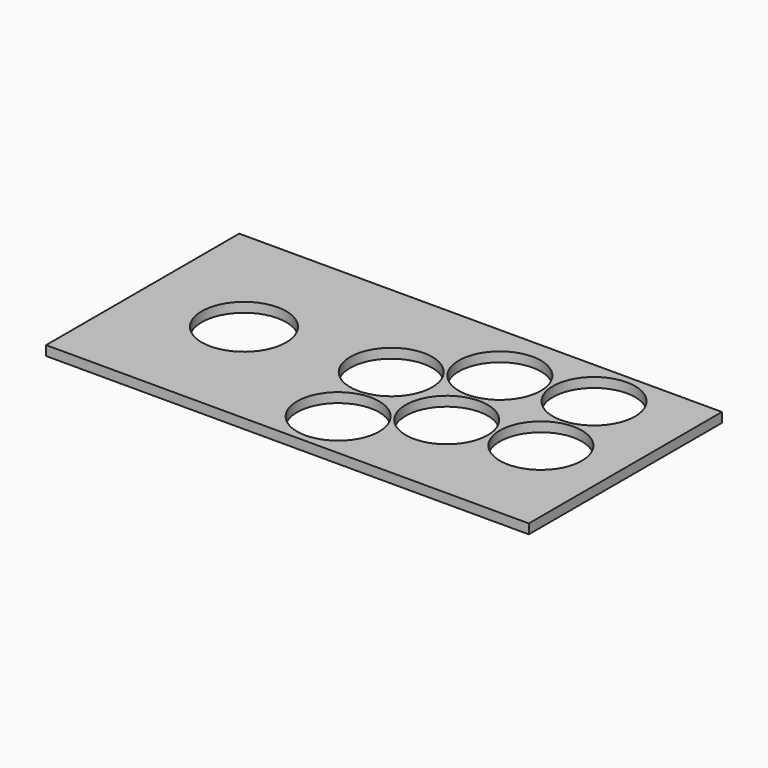
from build123d import *

# Parameters (mm, degrees)
F0_W     = 200
F0_H     = 100
F2_DEPTH = 4
F1_R     = 17.5
F1_R_2   = 17
F3_DEPTH = 4


with BuildPart() as f2:
    # F0 (on Top) → F2 (new body)
    with BuildSketch(Plane.XY):
        with Locations((-32.165436, 12.314129)):
            Rectangle(F0_W, F0_H)
    extrude(amount=F2_DEPTH)

    # F1 (on face) → F3 (cut)
    with BuildSketch(Plane.XY):
        with Locations((-90.165436, 12.314129)):
            Circle(F1_R)
        with Locations((-27.165436, -17.685871)):
            Circle(F1_R_2)
        with Locations((-33.165436, 17.314129)):
            Circle(F1_R_2)
        with Locations((1.834564, 2.314129)):
            Circle(F1_R_2)
        with Locations((-4.165436, 37.314129)):
            Circle(F1_R_2)
        with Locations((36.834564, 7.314129)):
            Circle(F1_R_2)
        with Locations((30.834564, 42.314129)):
            Circle(F1_R_2)
    extrude(amount=F3_DEPTH, mode=Mode.SUBTRACT)


solid = f2.part
